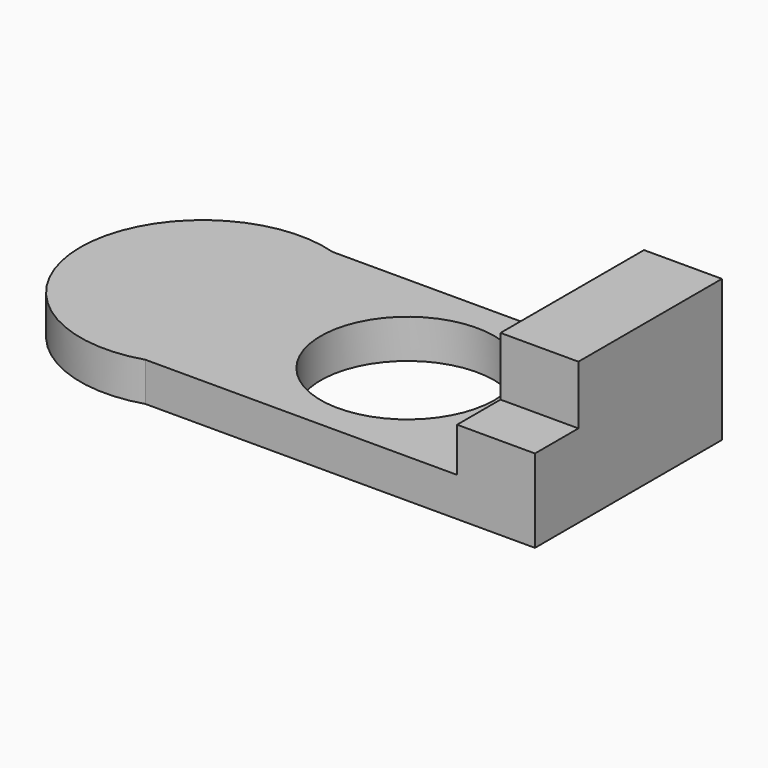
from build123d import *

# Parameters (mm, degrees)
F0_W     = 127
F0_H     = 76.2
F1_DEPTH = 12.7
F2_W     = 25.4
F2_H     = 33.5525823757
F3_DEPTH = 38.1
F4_W     = 17.7103555709
F4_H     = 19.1524197951
F5_DEPTH = 25.401
F6_R     = 28.3213454148
F7_DEPTH = 12.701


with BuildPart() as f1:
    # F0 (on Top) → F1 (new body)
    with BuildSketch(Plane.XY):
        Rectangle(F0_W, F0_H)
        with BuildLine():
            Line((-63.5, -38.1), (-63.5, 38.1))
            ThreePointArc((-63.5, 38.1), (-115.2096482651, 0), (-63.5, -38.1))
        make_face()
    extrude(amount=F1_DEPTH)

    # F2 (on Front) → F3 (join, symmetric)
    with BuildSketch(Plane.XZ):
        with Locations((50.8, 29.4762911879)):
            Rectangle(F2_W, F2_H)
    extrude(amount=F3_DEPTH, both=True)

    # F4 (on face) → F5 (cut, through all)
    with BuildSketch(Plane(origin=(38.1, 0, 0), x_dir=(0, -1, 0), z_dir=(-1, 0, 0))):
        with Locations((29.2448222145, 36.6763724782)):
            Rectangle(F4_W, F4_H)
    extrude(amount=-F5_DEPTH, mode=Mode.SUBTRACT)

    # F6 (on face) → F7 (cut, through all)
    with BuildSketch(Plane.XY.offset(12.7)):
        with Locations((-8.5171926767, 0)):
            Circle(F6_R)
    extrude(amount=-F7_DEPTH, mode=Mode.SUBTRACT)


solid = f1.part
